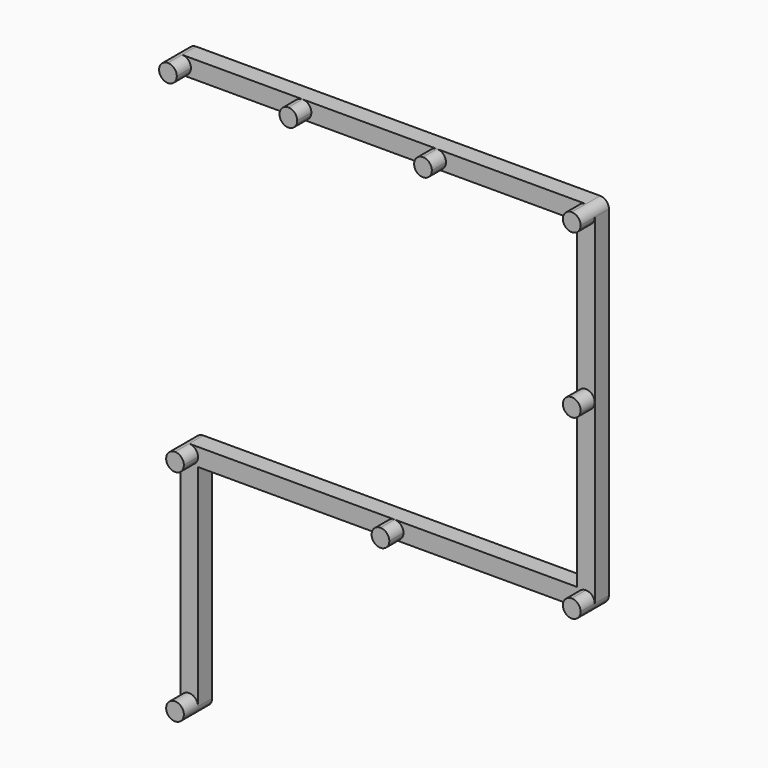
from build123d import *

# Parameters (mm, degrees)
F1_DEPTH = 10
F2_DEPTH = 5


with BuildPart() as f1:
    # F0 (on Front) → F1 (new body)
    with BuildSketch(Plane.XZ):
        with BuildLine():
            ThreePointArc((0, -2.5), (1.767766953, -1.767766953), (2.5, 0))
            ThreePointArc((2.5, 0), (1.767766953, 1.767766953), (0, 2.5))
            Line((0, 2.5), (0, -2.5))
        make_face()
        with BuildLine():
            Line((0, -2.5), (0, 2.5))
            ThreePointArc((0, 2.5), (-2.5, 0), (0, -2.5))
        make_face()
    extrude(amount=F1_DEPTH)



with BuildPart() as f1b:
    # F0 (on Front) → F1, piece 2 (new body)
    with BuildSketch(Plane.XZ):
        with BuildLine():
            ThreePointArc((36.5, 0), (35.767766953, 1.767766953), (34, 2.5))
            Line((34, 2.5), (34, -2.5))
            ThreePointArc((34, -2.5), (35.767766953, -1.767766953), (36.5, 0))
        make_face()
        with BuildLine():
            Line((34, -2.5), (34, 2.5))
            ThreePointArc((34, 2.5), (31.5, 0), (34, -2.5))
        make_face()
    extrude(amount=F1_DEPTH)


with BuildPart() as f1c:
    # F0 (on Front) → F1, piece 3 (new body)
    with BuildSketch(Plane.XZ):
        with BuildLine():
            ThreePointArc((114, -2.5), (115.767766953, -1.767766953), (116.5, 0))
            Line((116.5, 0), (114, 0))
            Line((114, 0), (114, -2.5))
        make_face()
        with BuildLine():
            ThreePointArc((116.5, 0), (115.767766953, 1.767766953), (114, 2.5))
            Line((114, 2.5), (114, 0))
            Line((114, 0), (116.5, 0))
        make_face()
        with BuildLine():
            Line((114, 0), (114, 2.5))
            ThreePointArc((114, 2.5), (112.232233047, 1.767766953), (111.5, 0))
            Line((111.5, 0), (114, 0))
        make_face()
        with BuildLine():
            Line((114, 0), (111.5, 0))
            ThreePointArc((111.5, 0), (112.232233047, -1.767766953), (114, -2.5))
            Line((114, -2.5), (114, 0))
        make_face()
    extrude(amount=F1_DEPTH)


with BuildPart() as f1d:
    # F0 (on Front) → F1, piece 4 (new body)
    with BuildSketch(Plane.XZ):
        with BuildLine():
            Line((72, -2.5), (72, 2.5))
            ThreePointArc((72, 2.5), (69.5, 0), (72, -2.5))
        make_face()
        with BuildLine():
            ThreePointArc((74.5, 0), (73.767766953, 1.767766953), (72, 2.5))
            Line((72, 2.5), (72, -2.5))
            ThreePointArc((72, -2.5), (73.767766953, -1.767766953), (74.5, 0))
        make_face()
    extrude(amount=F1_DEPTH)


with BuildPart() as f1e:
    # F0 (on Front) → F1, piece 5 (new body)
    with BuildSketch(Plane.XZ):
        with BuildLine():
            ThreePointArc((116.5, -46), (114, -43.5), (111.5, -46))
            ThreePointArc((111.5, -46), (114, -48.5), (116.5, -46))
        make_face()
    extrude(amount=F1_DEPTH)


with BuildPart() as f1f:
    # F0 (on Front) → F1, piece 6 (new body)
    with BuildSketch(Plane.XZ):
        with BuildLine():
            Line((114, -96), (116.5, -96))
            ThreePointArc((116.5, -96), (115.767766953, -94.232233047), (114, -93.5))
            Line((114, -93.5), (114, -96))
        make_face()
        with BuildLine():
            Line((114, -96), (111.5, -96))
            ThreePointArc((111.5, -96), (112.232233047, -97.767766953), (114, -98.5))
            Line((114, -98.5), (114, -96))
        make_face()
        with BuildLine():
            ThreePointArc((114, -98.5), (115.767766953, -97.767766953), (116.5, -96))
            Line((116.5, -96), (114, -96))
            Line((114, -96), (114, -98.5))
        make_face()
        with BuildLine():
            Line((114, -96), (114, -93.5))
            ThreePointArc((114, -93.5), (112.232233047, -94.232233047), (111.5, -96))
            Line((111.5, -96), (114, -96))
        make_face()
    extrude(amount=F1_DEPTH)


with BuildPart() as f1g:
    # F0 (on Front) → F1, piece 7 (new body)
    with BuildSketch(Plane.XZ):
        with BuildLine():
            ThreePointArc((62.5, -96), (61.767766953, -94.232233047), (60, -93.5))
            Line((60, -93.5), (60, -98.5))
            ThreePointArc((60, -98.5), (61.767766953, -97.767766953), (62.5, -96))
        make_face()
        with BuildLine():
            Line((60, -98.5), (60, -93.5))
            ThreePointArc((60, -93.5), (57.5, -96), (60, -98.5))
        make_face()
    extrude(amount=F1_DEPTH)


with BuildPart() as f1h:
    # F0 (on Front) → F1, piece 8 (new body)
    with BuildSketch(Plane.XZ):
        with BuildLine():
            ThreePointArc((2, -98.5), (3.767766953, -97.767766953), (4.5, -96))
            Line((4.5, -96), (2, -96))
            Line((2, -96), (2, -98.5))
        make_face()
        with BuildLine():
            Line((2, -96), (-0.5, -96))
            ThreePointArc((-0.5, -96), (0.232233047, -97.767766953), (2, -98.5))
            Line((2, -98.5), (2, -96))
        make_face()
        with BuildLine():
            Line((2, -96), (2, -93.5))
            ThreePointArc((2, -93.5), (0.232233047, -94.232233047), (-0.5, -96))
            Line((-0.5, -96), (2, -96))
        make_face()
        with BuildLine():
            ThreePointArc((4.5, -96), (3.767766953, -94.232233047), (2, -93.5))
            Line((2, -93.5), (2, -96))
            Line((2, -96), (4.5, -96))
        make_face()
    extrude(amount=F1_DEPTH)


with BuildPart() as f1i:
    # F0 (on Front) → F1, piece 9 (new body)
    with BuildSketch(Plane.XZ):
        with BuildLine():
            ThreePointArc((-0.5, -158), (2, -160.5), (4.5, -158))
            Line((4.5, -158), (-0.5, -158))
        make_face()
        with BuildLine():
            Line((-0.5, -158), (4.5, -158))
            ThreePointArc((4.5, -158), (2, -155.5), (-0.5, -158))
        make_face()
    extrude(amount=F1_DEPTH)


with BuildPart() as f1_1:
    add(f1.part)

    add(f1b.part)  # F2 merges F1b

    add(f1c.part)  # F2 merges F1c

    add(f1d.part)  # F2 merges F1d

    add(f1e.part)  # F2 merges F1e

    add(f1f.part)  # F2 merges F1f

    add(f1g.part)  # F2 merges F1g

    add(f1h.part)  # F2 merges F1h

    add(f1i.part)  # F2 merges F1i
    # F0 (on Front) → F2 (join)
    with BuildSketch(Plane.XZ):
        with BuildLine():
            ThreePointArc((0, 2.5), (1.767766953, 1.767766953), (2.5, 0))
            ThreePointArc((2.5, 0), (1.767766953, -1.767766953), (0, -2.5))
            Line((0, -2.5), (34, -2.5))
            ThreePointArc((34, -2.5), (31.5, 0), (34, 2.5))
            Line((34, 2.5), (0, 2.5))
        make_face()
        with BuildLine():
            Line((72, 2.5), (34, 2.5))
            ThreePointArc((34, 2.5), (35.767766953, 1.767766953), (36.5, 0))
            ThreePointArc((36.5, 0), (35.767766953, -1.767766953), (34, -2.5))
            Line((34, -2.5), (72, -2.5))
            ThreePointArc((72, -2.5), (69.5, 0), (72, 2.5))
        make_face()
        with BuildLine():
            Line((114, -2.5), (111.5, -2.5))
            Line((111.5, -2.5), (111.5, -46))
            ThreePointArc((111.5, -46), (114, -43.5), (116.5, -46))
            Line((116.5, -46), (116.5, 0))
            ThreePointArc((116.5, 0), (115.767766953, -1.767766953), (114, -2.5))
        make_face()
        with BuildLine():
            Line((114, 2.5), (72, 2.5))
            ThreePointArc((72, 2.5), (73.767766953, 1.767766953), (74.5, 0))
            ThreePointArc((74.5, 0), (73.767766953, -1.767766953), (72, -2.5))
            Line((72, -2.5), (111.5, -2.5))
            Line((111.5, -2.5), (111.5, 0))
            ThreePointArc((111.5, 0), (112.232233047, 1.767766953), (114, 2.5))
        make_face()
        with BuildLine():
            ThreePointArc((116.5, -46), (114, -48.5), (111.5, -46))
            Line((111.5, -46), (111.5, -93.5))
            Line((111.5, -93.5), (114, -93.5))
            ThreePointArc((114, -93.5), (115.767766953, -94.232233047), (116.5, -96))
            Line((116.5, -96), (116.5, -46))
        make_face()
        with BuildLine():
            Line((111.5, -96), (111.5, -93.5))
            Line((111.5, -93.5), (60, -93.5))
            ThreePointArc((60, -93.5), (61.767766953, -94.232233047), (62.5, -96))
            ThreePointArc((62.5, -96), (61.767766953, -97.767766953), (60, -98.5))
            Line((60, -98.5), (114, -98.5))
            ThreePointArc((114, -98.5), (112.232233047, -97.767766953), (111.5, -96))
        make_face()
        with BuildLine():
            ThreePointArc((60, -98.5), (57.5, -96), (60, -93.5))
            Line((60, -93.5), (2, -93.5))
            ThreePointArc((2, -93.5), (3.767766953, -94.232233047), (4.5, -96))
            Line((4.5, -96), (4.5, -98.5))
            Line((4.5, -98.5), (60, -98.5))
        make_face()
        with BuildLine():
            Line((4.5, -158), (4.5, -98.5))
            Line((4.5, -98.5), (2, -98.5))
            ThreePointArc((2, -98.5), (0.232233047, -97.767766953), (-0.5, -96))
            Line((-0.5, -96), (-0.5, -158))
            ThreePointArc((-0.5, -158), (2, -155.5), (4.5, -158))
        make_face()
        with BuildLine():
            Line((2, -98.5), (4.5, -98.5))
            Line((4.5, -98.5), (4.5, -96))
            ThreePointArc((4.5, -96), (3.767766953, -97.767766953), (2, -98.5))
        make_face()
        with BuildLine():
            Line((111.5, 0), (111.5, -2.5))
            Line((111.5, -2.5), (114, -2.5))
            ThreePointArc((114, -2.5), (112.232233047, -1.767766953), (111.5, 0))
        make_face()
        with BuildLine():
            Line((114, -93.5), (111.5, -93.5))
            Line((111.5, -93.5), (111.5, -96))
            ThreePointArc((111.5, -96), (112.232233047, -94.232233047), (114, -93.5))
        make_face()
    extrude(amount=F2_DEPTH)


solid = f1_1.part
